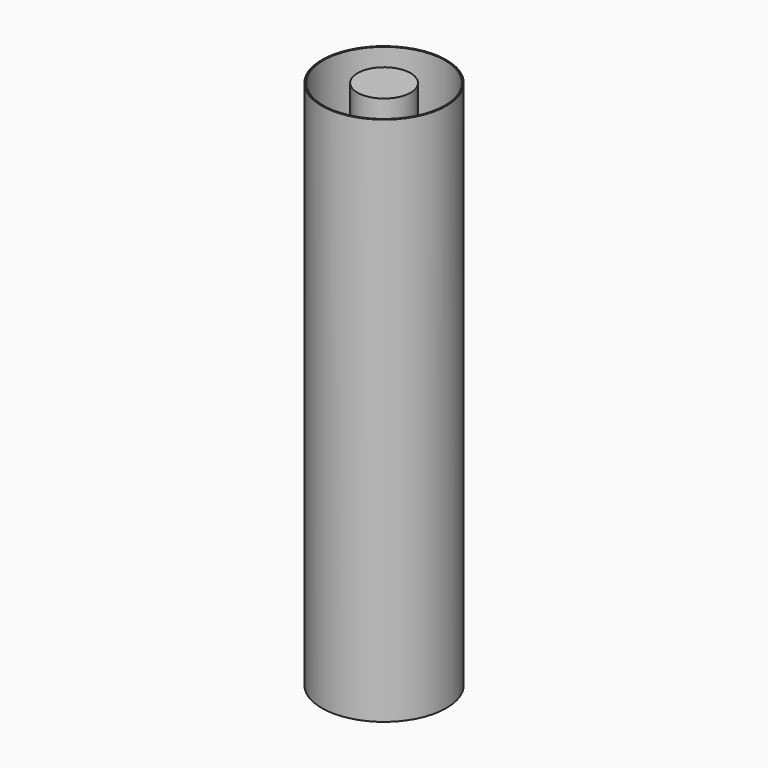
from build123d import *

# Parameters (mm, degrees)
SKETCH_R         = 117.5
SKETCH_R_2       = 115
EXTRUDE_DEPTH    = 1000
SKETCH001_R      = 50
EXTRUDE001_DEPTH = 1000
SKETCH002_R      = 115
SKETCH002_R_2    = 50
EXTRUDE002_DEPTH = 0.035


with BuildPart() as gnd:
    # Sketch → Extrude (new body)
    with BuildSketch(Plane.XY):
        Circle(SKETCH_R)
        Circle(SKETCH_R_2, mode=Mode.SUBTRACT)
    extrude(amount=EXTRUDE_DEPTH)


with BuildPart() as antenna:
    # Sketch001 → Extrude001 (new body)
    with BuildSketch(Plane.XY):
        Circle(SKETCH001_R)
    extrude(amount=EXTRUDE001_DEPTH)


with BuildPart() as obj1:
    # Sketch002 → Extrude002 (new body)
    with BuildSketch(Plane.XY):
        Circle(SKETCH002_R)
        Circle(SKETCH002_R_2, mode=Mode.SUBTRACT)
    extrude(amount=-EXTRUDE002_DEPTH)


solid = Compound([gnd.part, antenna.part, obj1.part])
